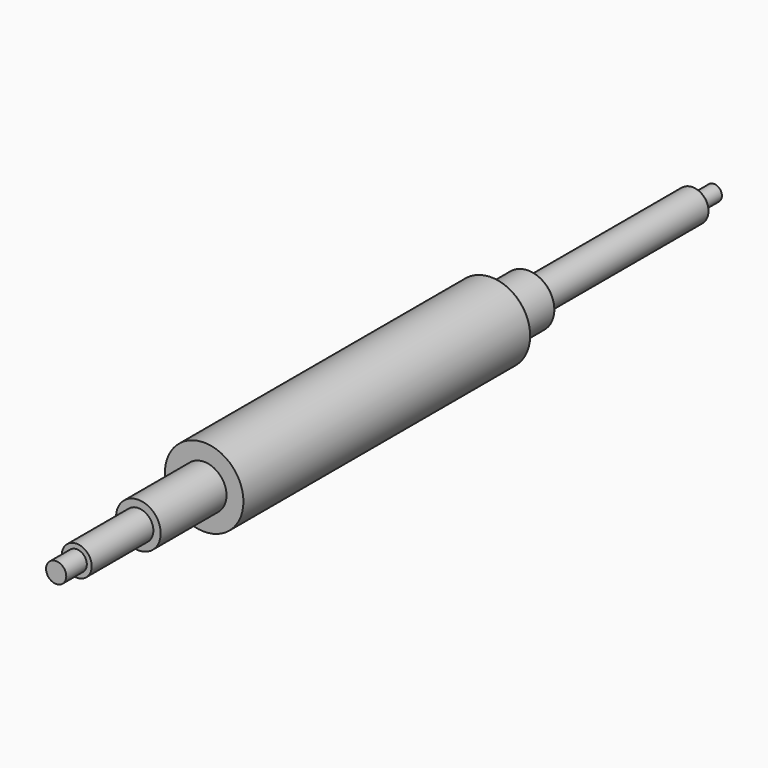
from build123d import *

# Parameters (mm, degrees)
F0_R      = 38.195919
F1_DEPTH  = 350
F2_R      = 25.71702
F3_DEPTH  = 45
F4_R      = 15.726109
F5_DEPTH  = 200
F6_R      = 2
F7_R      = 7.719414
F8_DEPTH  = 25
F9_R      = 21.707928
F10_DEPTH = 80
F11_R     = 14.568553
F12_DEPTH = 75
F13_R     = 9.827947
F14_DEPTH = 25


with BuildPart() as f1:
    # F0 (on Front) → F1 (new body)
    with BuildSketch(Plane.XZ):
        Circle(F0_R)
    extrude(amount=F1_DEPTH)

    # F2 (on face) → F3 (join)
    with BuildSketch(Plane(origin=(0, 0, 0), x_dir=(-1, 0, 0), z_dir=(0, 1, 0))):
        Circle(F2_R)
    extrude(amount=F3_DEPTH)

    # F4 (on face) → F5 (join)
    with BuildSketch(Plane(origin=(0, 45, 0), x_dir=(-1, 0, 0), z_dir=(0, 1, 0))):
        Circle(F4_R)
    extrude(amount=F5_DEPTH)

    # F6
    f6_edges = [f1.edges().sort_by_distance(p)[0] for p in [
        (15.726109, 245, 0),
        (25.71702, 45, 0),
        (-38.195919, 0, 0),
    ]]
    fillet(f6_edges, radius=F6_R)

    # F7 (on face) → F8 (join)
    with BuildSketch(Plane(origin=(0, 245, 0), x_dir=(-1, 0, 0), z_dir=(0, 1, 0))):
        Circle(F7_R)
    extrude(amount=F8_DEPTH)

    # F9 (on face) → F10 (join)
    with BuildSketch(Plane.XZ.offset(350)):
        Circle(F9_R)
    extrude(amount=F10_DEPTH)

    # F11 (on face) → F12 (join)
    with BuildSketch(Plane.XZ.offset(430)):
        Circle(F11_R)
    extrude(amount=F12_DEPTH)

    # F13 (on face) → F14 (join)
    with BuildSketch(Plane.XZ.offset(505)):
        Circle(F13_R)
    extrude(amount=F14_DEPTH)


solid = f1.part
